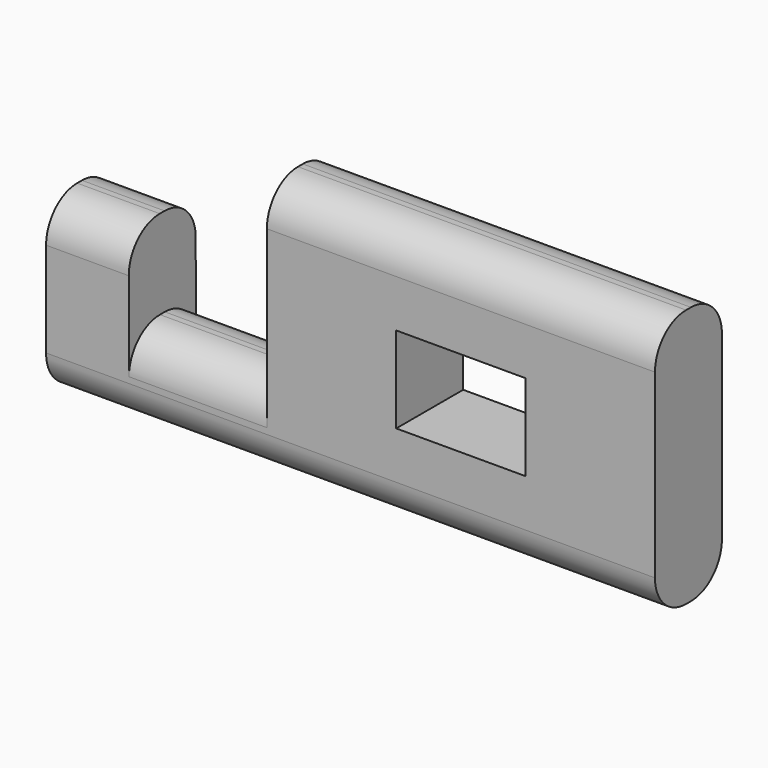
from build123d import *

# Parameters (mm, degrees)
F0_W     = 1.905
F0_H     = 1.27
F0_W_2   = 2.032
F0_H_2   = 1.2319
F1_DEPTH = 0.61595
F2_R     = 0.5715


with BuildPart() as f1:
    # F0 (on Front) → F1 (new body, symmetric)
    with BuildSketch(Plane.XZ):
        Polygon((-7.747, 0), (-7.747, 1.2319), (-7.74948, 2.54), (-8.9662, 2.54), (-8.9662, 0), align=None)
        Polygon((-5.715, 3.81), (-5.715, 1.2319), (-5.715, 0), (0, 0), (0, 3.81), align=None)
        with Locations((-2.8575, 1.905)):
            Rectangle(F0_W, F0_H, mode=Mode.SUBTRACT)
        with Locations((-6.731, 0.61595)):
            Rectangle(F0_W_2, F0_H_2)
    extrude(amount=F1_DEPTH, both=True)

    # F2
    f2_edges = [f1.edges().sort_by_distance(p)[0] for p in [
        (-6.731, 0.61595, 1.2319),
        (-6.731, -0.61595, 1.2319),
        (-4.4831, -0.61595, 0),
        (-4.4831, 0.61595, 0),
        (-8.35784, -0.61595, 2.54),
        (-8.35784, 0.61595, 2.54),
        (-2.8575, -0.61595, 3.81),
        (-2.8575, 0.61595, 3.81),
    ]]
    fillet(f2_edges, radius=F2_R)


solid = f1.part
